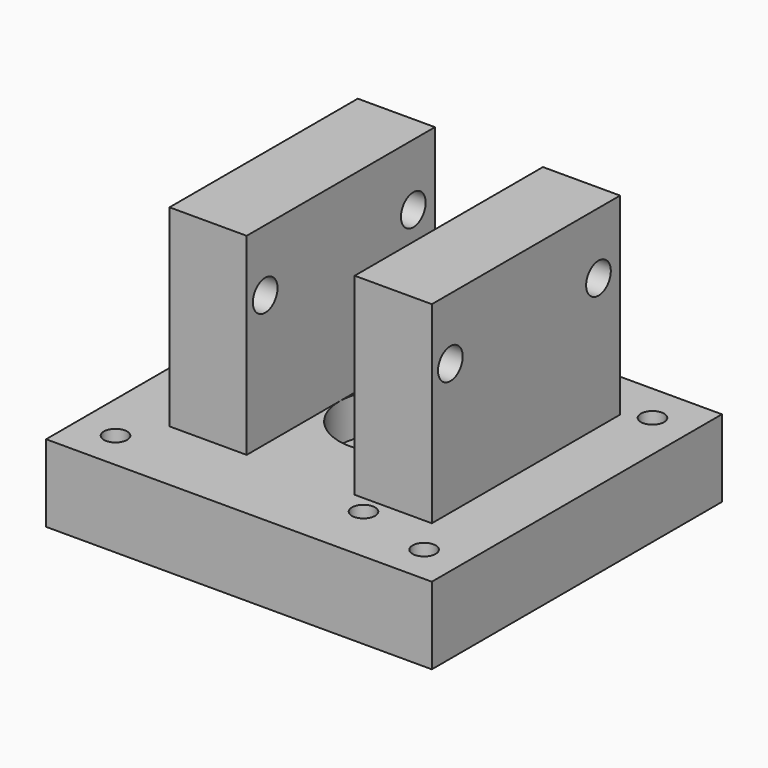
from build123d import *

# Parameters (mm, degrees)
SKETCH_W        = 70
SKETCH_H        = 47
PAD_DEPTH       = 10
SKETCH001_R     = 7
SKETCH001_R_2   = 1.5
POCKET_DEPTH    = 5
SKETCH002_R     = 1.5
SKETCH002_W     = 20
SKETCH002_H     = 70
POCKET001_DEPTH = 10.001
SKETCH003_W     = 10
SKETCH003_H     = 30.5
PAD001_DEPTH    = 25
SKETCH005_R     = 2
POCKET002_DEPTH = 42.001


with BuildPart() as part:
    # Sketch → Pad (new body)
    with BuildSketch(Plane.XY):
        with Locations((35, 23.5)):
            Rectangle(SKETCH_W, SKETCH_H)
    extrude(amount=PAD_DEPTH)

    # Sketch001 → Pocket (cut)
    with BuildSketch(Plane.XY.offset(10)):
        with Locations((25, 25)):
            Circle(SKETCH001_R)
        with Locations((5, 25)):
            Circle(SKETCH001_R_2)
        with Locations((35, 42.320508)):
            Circle(SKETCH001_R_2)
        with Locations((35, 7.679492)):
            Circle(SKETCH001_R_2)
    extrude(amount=-POCKET_DEPTH, mode=Mode.SUBTRACT)

    # Sketch002 → Pocket001 (cut, through all)
    with BuildSketch(Plane.XY.offset(10)):
        with Locations((5, 42)):
            Circle(SKETCH002_R)
        with Locations((5, 5)):
            Circle(SKETCH002_R)
        with Locations((45, 5)):
            Circle(SKETCH002_R)
        with Locations((45, 42)):
            Circle(SKETCH002_R)
        with Locations((60, 15)):
            Rectangle(SKETCH002_W, SKETCH002_H)
    extrude(amount=-POCKET001_DEPTH, mode=Mode.SUBTRACT)

    # Sketch003 → Pad001 (new body)
    with BuildSketch(Plane.XY.offset(10)):
        with Locations((13, 25.25)):
            Rectangle(SKETCH003_W, SKETCH003_H)
        with Locations((37, 25.25)):
            Rectangle(SKETCH003_W, SKETCH003_H)
    extrude(amount=PAD001_DEPTH)

    # Sketch005 → Pocket002 (cut, through all)
    with BuildSketch(Plane.YZ.offset(42)):
        with Locations((13, 27)):
            Circle(SKETCH005_R)
        with Locations((37, 27)):
            Circle(SKETCH005_R)
    extrude(amount=-POCKET002_DEPTH, mode=Mode.SUBTRACT)


solid = part.part
